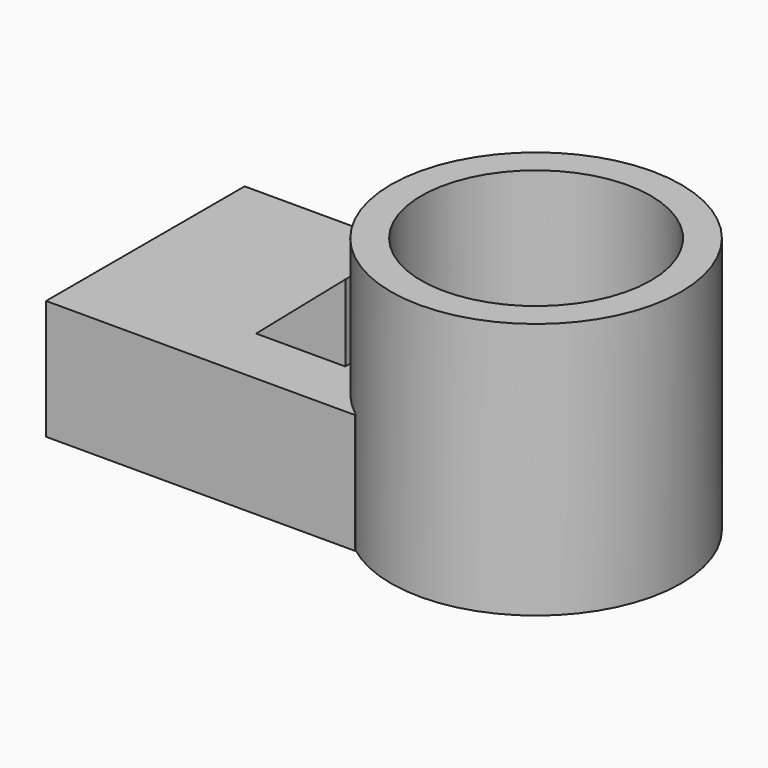
from build123d import *

# Parameters (mm, degrees)
F0_W     = 71.459316
F0_H     = 57.452351
F1_DEPTH = 27.686
F2_R     = 33.593377
F3_DEPTH = 59.436
F4_R     = 26.575227
F5_DEPTH = 120.396
F7_DEPTH = 7.62


with BuildPart() as f1:
    # F0 (on Top) → F1 (new body)
    with BuildSketch(Plane.XY):
        with Locations((-20.30788, 7.78723)):
            Rectangle(F0_W, F0_H)
    extrude(amount=F1_DEPTH)

    # F2 (on Top) → F3 (join)
    with BuildSketch(Plane.XY):
        with Locations((35.88235, 5.954943)):
            Circle(F2_R)
    extrude(amount=F3_DEPTH)

    # F4 (on face) → F5 (cut, symmetric)
    with BuildSketch(Plane.XY.offset(59.436)):
        with Locations((35.88235, 5.954943)):
            Circle(F4_R)
    extrude(amount=F5_DEPTH, both=True, mode=Mode.SUBTRACT)


with BuildPart() as f7:
    # F6 (on Front) → F7 (new body)
    with BuildSketch(Plane.XZ):
        Polygon((2.581278, 45.724593), (-18.064361, 27.974378), (2.581278, 27.974378), align=None)
    extrude(amount=F7_DEPTH)


solid = Compound([f1.part, f7.part])
